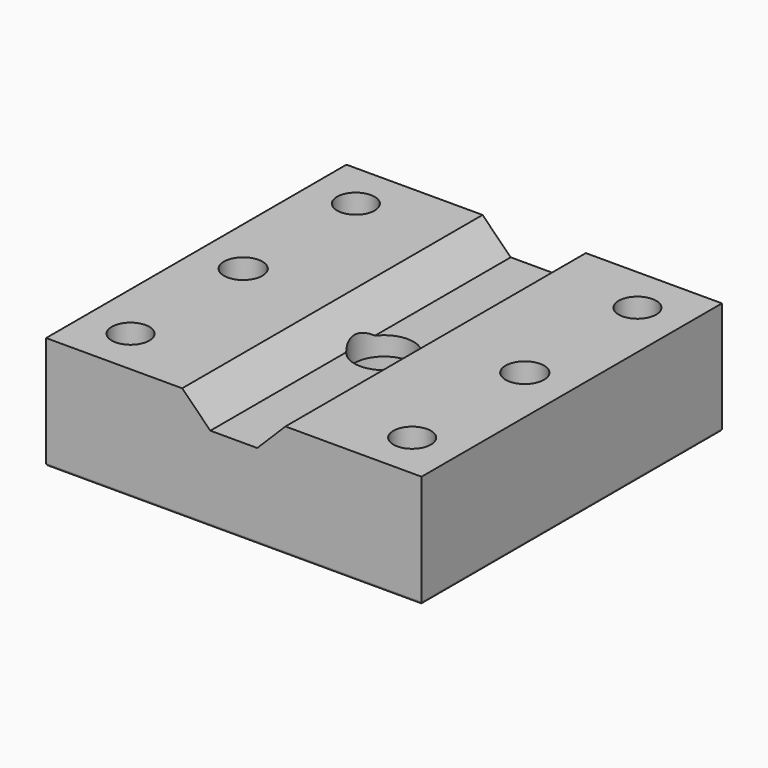
from build123d import *

# Parameters (mm, degrees)
F0_W      = 40
F0_H      = 40
F1_DEPTH  = 12
F3_DEPTH  = 40.001
F4_R      = 2
F5_DEPTH  = 12.001
F6_R      = 2.05
F7_DEPTH  = 12.001
F8_R      = 0.25
F9_R      = 3.15
F10_DEPTH = 12.001
F11_R     = 5
F12_DEPTH = 7


with BuildPart() as f1:
    # F0 (on Top) → F1 (new body)
    with BuildSketch(Plane.XY):
        with Locations((20, 20)):
            Rectangle(F0_W, F0_H)
    extrude(amount=F1_DEPTH)

    # F2 (on face) → F3 (cut, through all)
    with BuildSketch(Plane.XZ):
        Polygon((14.5, 12), (17.5, 9), (22.5, 9), (25.5, 12), align=None)
    extrude(amount=-F3_DEPTH, mode=Mode.SUBTRACT)

    # F4 (on face) → F5 (cut, through all)
    with BuildSketch(Plane.XY.offset(12)):
        with Locations((5, 5)):
            Circle(F4_R)
        with Locations((5, 35)):
            Circle(F4_R)
        with Locations((35, 5)):
            Circle(F4_R)
        with Locations((35, 35)):
            Circle(F4_R)
    extrude(amount=-F5_DEPTH, mode=Mode.SUBTRACT)

    # F6 (on face) → F7 (cut, through all)
    with BuildSketch(Plane.XY.offset(12)):
        with Locations((5, 20)):
            Circle(F6_R)
        with Locations((35, 20)):
            Circle(F6_R)
    extrude(amount=-F7_DEPTH, mode=Mode.SUBTRACT)

    # F8
    f8_edges = [f1.edges().sort_by_distance(p)[0] for p in [
        (20, 0, 0),
        (0, 20, 0),
        (40, 20, 0),
        (20, 40, 0),
    ]]
    fillet(f8_edges, radius=F8_R)

    # F9 (on face) → F10 (cut, through all)
    with BuildSketch(Plane(origin=(0, 0, 0), x_dir=(1, 0, 0), z_dir=(0, 0, -1))):
        with Locations((20, -20)):
            Circle(F9_R)
    extrude(amount=-F10_DEPTH, mode=Mode.SUBTRACT)

    # F11 (on face) → F12 (cut)
    with BuildSketch(Plane(origin=(0, 0, 0), x_dir=(1, 0, 0), z_dir=(0, 0, -1))):
        with Locations((20, -20)):
            Circle(F11_R)
    extrude(amount=-F12_DEPTH, mode=Mode.SUBTRACT)


solid = f1.part
